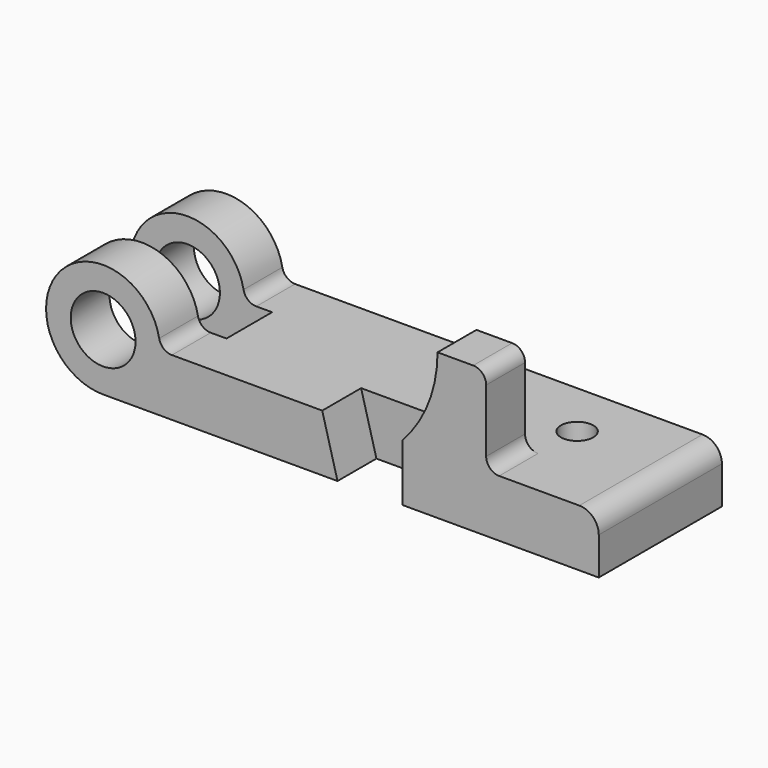
from build123d import *

# Parameters (mm, degrees)
F0_R     = 12.7
F0_W     = 44.1198
F0_H     = 22.352
F0_W_2   = 32.8422
F1_DEPTH = 60.325
F2_DEPTH = 19.05
F3_W     = 33.1412
F3_H     = 22.3266
F3_W_2   = 55.289626
F3_R     = 6.35
F4_DEPTH = 57.151
F6_DEPTH = 41.275
F7_R     = 5.08
F8_R     = 7.62


with BuildPart() as f1:
    # F0 (on Front) → F1 (new body)
    with BuildSketch(Plane.XZ):
        with BuildLine():
            ThreePointArc((22.352, 0), (0, 22.352), (-22.352, 0))
            ThreePointArc((-22.352, 0), (-15.805251, -15.805251), (0, -22.352))
            Line((0, -22.352), (91.8464, -22.352))
            Line((91.8464, -22.352), (85.852, 0))
            Line((85.852, 0), (22.352, 0))
        make_face()
        Circle(F0_R, mode=Mode.SUBTRACT)
        Polygon((85.852, 0), (91.8464, -22.352), (117.2464, -22.352), (117.2464, 0), align=None)
        with Locations((172.1485, -11.176)):
            Rectangle(F0_W, F0_H)
        with BuildLine():
            ThreePointArc((131.0386, 34.798), (127.464415, 16.082358), (117.2464, 0))
            Line((117.2464, 0), (150.0886, 0))
            Line((150.0886, 0), (150.0886, 34.798))
            Line((150.0886, 34.798), (131.0386, 34.798))
        make_face()
        with Locations((133.6675, -11.176)):
            Rectangle(F0_W_2, F0_H)
    extrude(amount=-F1_DEPTH)

    # F0 (on Front) → F2 (cut)
    with BuildSketch(Plane.XZ):
        Polygon((85.852, 0), (91.8464, -22.352), (117.2464, -22.352), (117.2464, 0), align=None)
    extrude(amount=-F2_DEPTH, mode=Mode.SUBTRACT)

    # F3 (on face) → F4 (cut, through all)
    with BuildSketch(Plane(origin=(0, 0, -22.352), x_dir=(1, 0, 0), z_dir=(0, 0, -1))):
        with Locations((16.5706, -30.1625)):
            Rectangle(F3_W, F3_H)
        with Locations((-27.644813, -30.1625)):
            Rectangle(F3_W_2, F3_H)
        with Locations((155.3464, -37.973)):
            Circle(F3_R)
    extrude(amount=-F4_DEPTH, mode=Mode.SUBTRACT)

    # F5 (on face) → F6 (cut)
    with BuildSketch(Plane(origin=(0, 60.325, 0), x_dir=(-1, 0, 0), z_dir=(0, 1, 0))):
        with BuildLine():
            Line((-150.0886, 0), (-117.2464, 0))
            ThreePointArc((-117.2464, 0), (-127.464415, 16.082358), (-131.0386, 34.798))
            Line((-131.0386, 34.798), (-150.0886, 34.798))
            Line((-150.0886, 34.798), (-150.0886, 0))
        make_face()
    extrude(amount=-F6_DEPTH, mode=Mode.SUBTRACT)

    # F7
    f7_edges = [f1.edges().sort_by_distance(p)[0] for p in [
        (22.352, 9.4996, 0),
        (22.352, 50.8254, 0),
        (150.0886, 9.525, 34.798),
        (150.0886, 9.525, 0),
    ]]
    fillet(f7_edges, radius=F7_R)

    # F8
    f8_edges = [f1.edges().sort_by_distance(p)[0] for p in [
        (194.2084, 30.1625, 0),
    ]]
    fillet(f8_edges, radius=F8_R)


solid = f1.part
